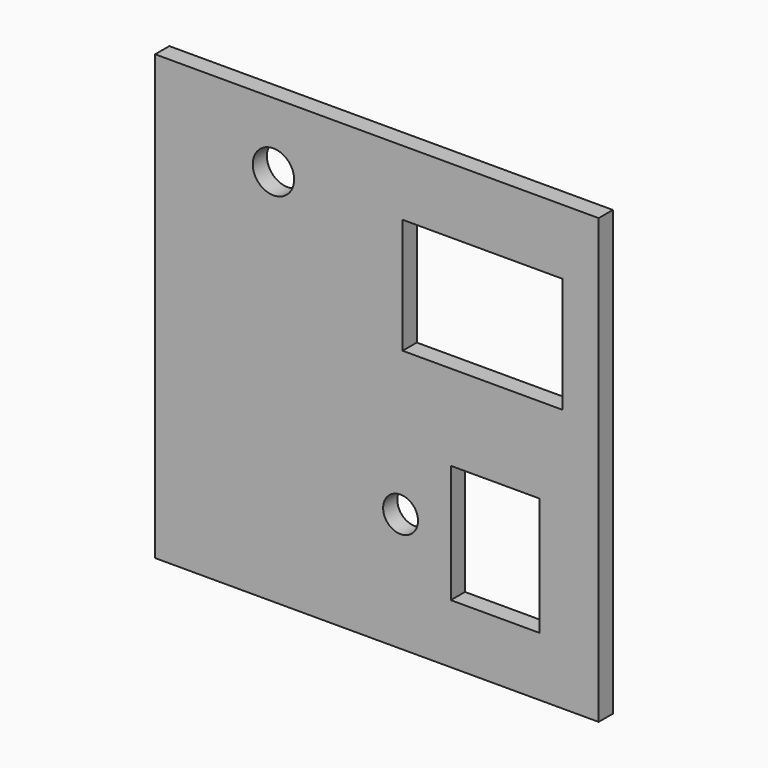
from build123d import *

# Parameters (mm, degrees)
F0_W     = 75
F0_H     = 75
F0_R     = 2.95
F0_W_2   = 15
F0_H_2   = 20
F0_R_2   = 3.5
F0_W_3   = 27
F0_H_3   = 19.5
F1_DEPTH = 3


with BuildPart() as f1:
    # F0 (on Front) → F1 (new body)
    with BuildSketch(Plane.XZ):
        Rectangle(F0_W, F0_H)
        with Locations((4, -17.5)):
            Circle(F0_R, mode=Mode.SUBTRACT)
        with Locations((20, -17.5)):
            Rectangle(F0_W_2, F0_H_2, mode=Mode.SUBTRACT)
        with Locations((-17.5, 26.5)):
            Circle(F0_R_2, mode=Mode.SUBTRACT)
        with Locations((17.847533, 16.724941)):
            Rectangle(F0_W_3, F0_H_3, mode=Mode.SUBTRACT)
    extrude(amount=F1_DEPTH)


solid = f1.part
